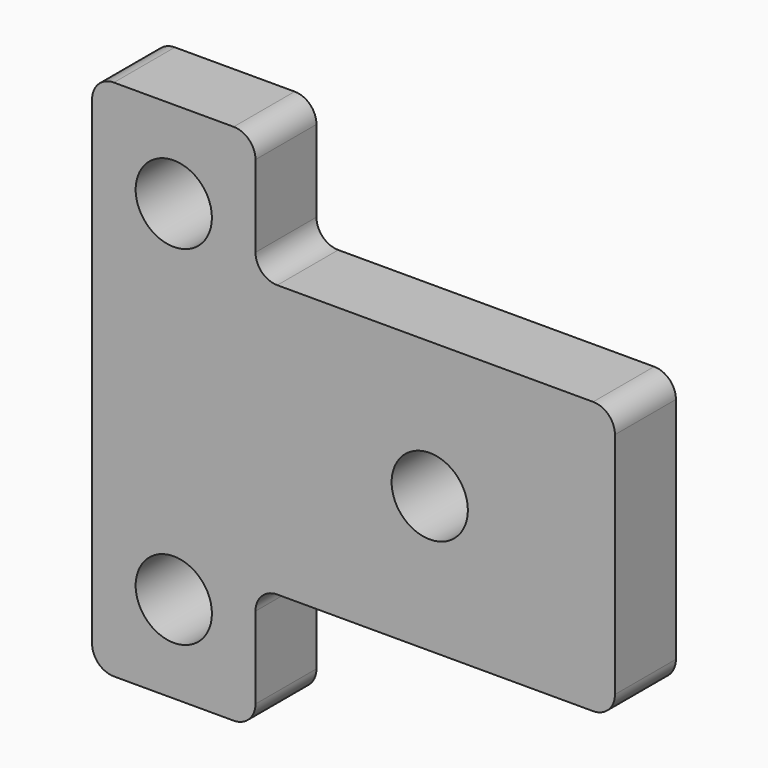
from build123d import *

# Parameters (mm, degrees)
F0_R     = 1.75
F1_DEPTH = 3.5
F2_R     = 1


with BuildPart() as f1:
    # F0 (on Front) → F1 (new body)
    with BuildSketch(Plane.XZ):
        Polygon((0, 12), (0, 0), (0, -12), (7.5, -12), (7.5, -6.25), (24.000001, -6.25), (24.000001, 6.25), (7.5, 6.25), (7.5, 12), align=None)
        with Locations((3.75, -8)):
            Circle(F0_R, mode=Mode.SUBTRACT)
        with Locations((3.75, 8)):
            Circle(F0_R, mode=Mode.SUBTRACT)
        with Locations((15.5, 0)):
            Circle(F0_R, mode=Mode.SUBTRACT)
    extrude(amount=F1_DEPTH)

    # F2
    f2_edges = [f1.edges().sort_by_distance(p)[0] for p in [
        (7.5, -1.75, -12),
        (24.000001, -1.75, -6.25),
        (0, -1.75, -12),
        (24.000001, -1.75, 6.25),
        (7.5, -1.75, 12),
        (7.5, -1.75, 6.25),
        (0, -1.75, 12),
        (7.5, -1.75, -6.25),
    ]]
    fillet(f2_edges, radius=F2_R)


solid = f1.part
